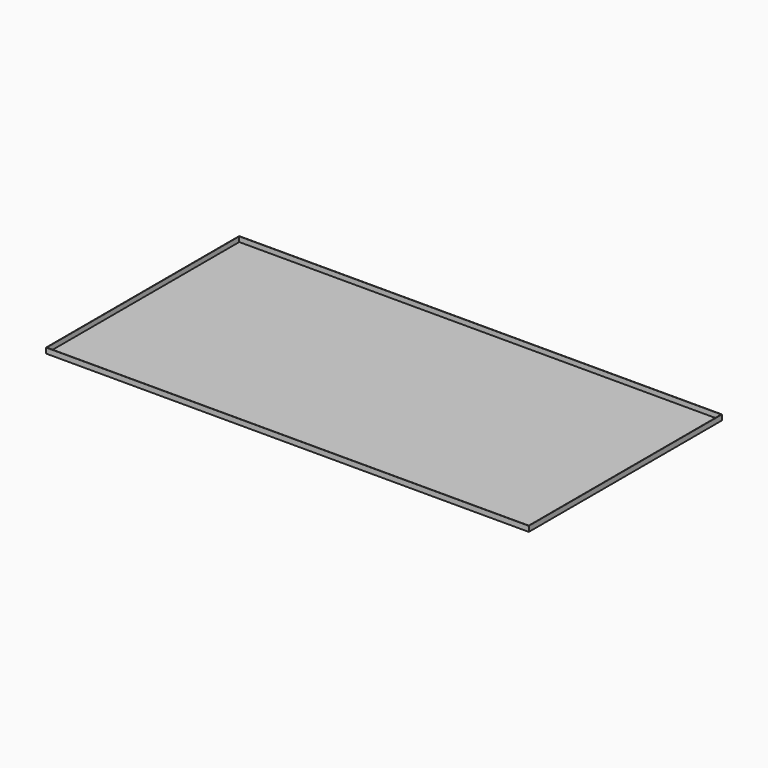
from build123d import *

# Parameters (mm, degrees)
F0_W     = 2438.4
F0_H     = 2438.4
F1_DEPTH = 3.175
F2_W     = 4876.8
F2_H     = 2438.4
F2_W_2   = 4870.45
F2_H_2   = 2432.05
F3_DEPTH = 50.8


with BuildPart() as f1:
    # F0 (on Top) → F1 (new body)
    with BuildSketch(Plane.XY):
        with Locations((1219.2, 1219.2)):
            Rectangle(F0_W, F0_H)
        with Locations((3657.6, 1219.2)):
            Rectangle(F0_W, F0_H)
    extrude(amount=F1_DEPTH)

    # F2 (on face) → F3 (join)
    with BuildSketch(Plane.XY.offset(3.175)):
        with Locations((2438.4, 1219.2)):
            Rectangle(F2_W, F2_H)
        with Locations((2438.4, 1219.2)):
            Rectangle(F2_W_2, F2_H_2, mode=Mode.SUBTRACT)
    extrude(amount=F3_DEPTH)


solid = f1.part
